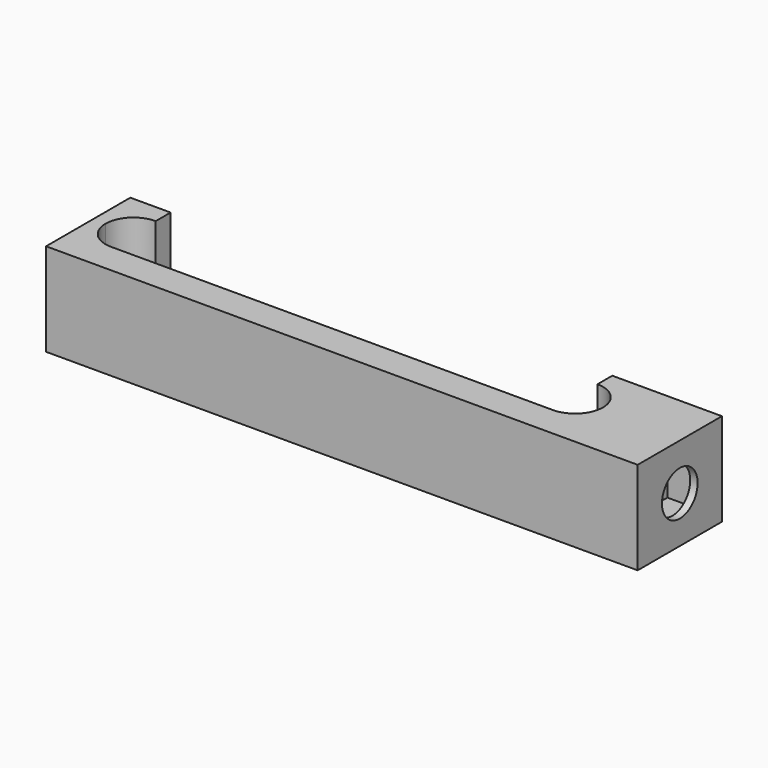
from build123d import *

# Parameters (mm, degrees)
F1_DEPTH = 15
F2_W     = 13
F2_H     = 11.2
F3_DEPTH = 6
F4_W     = 17
F4_H     = 15
F5_DEPTH = 1.2
F6_R     = 3.6
F7_DEPTH = 2


with BuildPart() as f1:
    # F0 (on Top) → F1 (new body)
    with BuildSketch(Plane.XY):
        with BuildLine():
            ThreePointArc((40.15, 0), (38.831981, -3.181981), (35.65, -4.5))
            Line((35.65, -4.5), (-35.65, -4.5))
            ThreePointArc((-35.65, -4.5), (-38.831981, -3.181981), (-40.15, 0))
            ThreePointArc((-40.15, 0), (-38.831981, 3.181981), (-35.65, 4.5))
            Line((-35.65, 4.5), (-35.65, 7.5))
            Line((-35.65, 7.5), (-42.15, 7.5))
            Line((-42.15, 7.5), (-42.15, -9.5))
            Line((-42.15, -9.5), (52.15, -9.5))
            Line((52.15, -9.5), (52.15, 7.5))
            Line((52.15, 7.5), (35.65, 7.5))
            Line((35.65, 7.5), (35.65, 4.5))
            ThreePointArc((35.65, 4.5), (38.831981, 3.181981), (40.15, 0))
        make_face()
    extrude(amount=F1_DEPTH)

    # F2 (on face) → F3 (cut)
    with BuildSketch(Plane.YZ.offset(52.15)):
        with Locations((-1, 7.5)):
            Rectangle(F2_W, F2_H)
    extrude(amount=-F3_DEPTH, mode=Mode.SUBTRACT)

    # F4 (on face) → F5 (join)
    with BuildSketch(Plane.YZ.offset(52.15)):
        with Locations((-1, 7.5)):
            Rectangle(F4_W, F4_H)
    extrude(amount=F5_DEPTH)

    # F6 (on face) → F7 (cut)
    with BuildSketch(Plane.YZ.offset(53.35)):
        with Locations((-1, 7.5)):
            Circle(F6_R)
    extrude(amount=-F7_DEPTH, mode=Mode.SUBTRACT)


solid = f1.part
